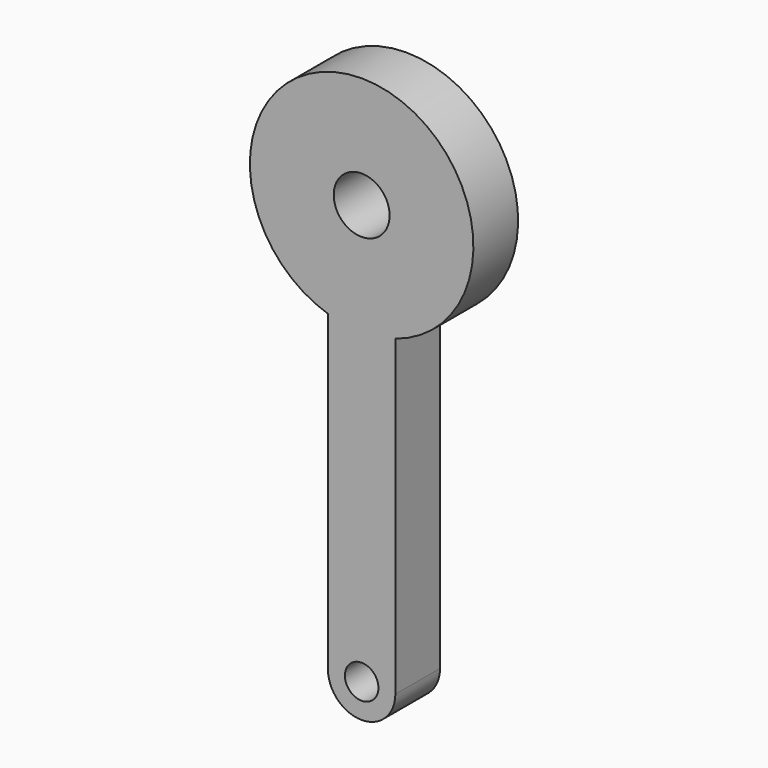
from build123d import *

# Parameters (mm, degrees)
F0_R     = 1.5
F0_R_2   = 2.5
F1_DEPTH = 5


with BuildPart() as f1:
    # F0 (on Front) → F1 (new body)
    with BuildSketch(Plane.XZ):
        with BuildLine():
            Line((3.014832, -37.534715), (3.014832, -9.534715))
            ThreePointArc((3.014832, -9.534715), (0, 10), (-3.014832, -9.534715))
            Line((-3.014832, -9.534715), (-3.014832, -37.534715))
            ThreePointArc((-3.014832, -37.534715), (0, -40.549547), (3.014832, -37.534715))
        make_face()
        with Locations((0, -37.534715)):
            Circle(F0_R, mode=Mode.SUBTRACT)
        Circle(F0_R_2, mode=Mode.SUBTRACT)
    extrude(amount=F1_DEPTH)


solid = f1.part
